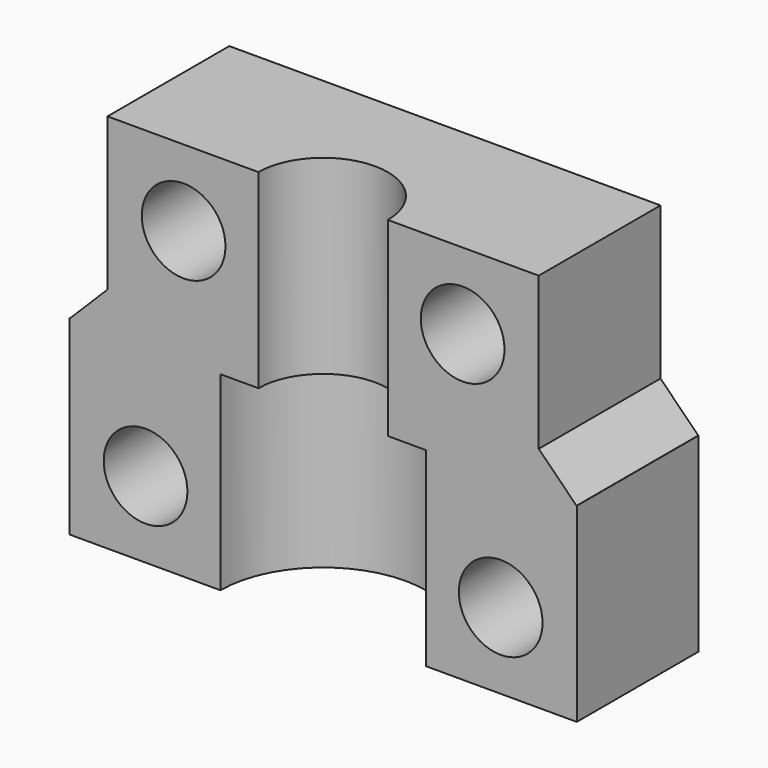
from build123d import *

# Parameters (mm, degrees)
PAD_DEPTH       = 15
SKETCH003_W     = 20
SKETCH003_H     = 6
PAD001_DEPTH    = 7.5
SKETCH001_R     = 1.65
POCKET_DEPTH    = 6.001
SKETCH002_R     = 4.05
POCKET001_DEPTH = 7.5
CHAMFER_SIZE    = 1.49


with BuildPart() as part:
    # Sketch → Pad (new body)
    with BuildSketch(Plane.XY):
        with BuildLine():
            ThreePointArc((2.55, 0), (0, 2.55), (-2.55, 0))
            Line((-2.55, 0), (-8.5, 0))
            Line((-8.5, 0), (-8.5, 6))
            Line((-8.5, 6), (8.5, 6))
            Line((8.5, 6), (8.5, 0))
            Line((2.55, 0), (8.5, 0))
        make_face()
    extrude(amount=PAD_DEPTH)

    # Sketch003 → Pad001 (join)
    with BuildSketch(Plane.XY):
        with Locations((0, 3)):
            Rectangle(SKETCH003_W, SKETCH003_H)
    extrude(amount=PAD001_DEPTH)

    # Sketch001 → Pocket (cut, through all)
    with BuildSketch(Plane.XZ):
        with Locations((-7, 3)):
            Circle(SKETCH001_R)
        with Locations((-5.5, 12)):
            Circle(SKETCH001_R)
        with Locations((5.5, 12)):
            Circle(SKETCH001_R)
        with Locations((7, 3)):
            Circle(SKETCH001_R)
    extrude(amount=-POCKET_DEPTH, mode=Mode.SUBTRACT)

    # Sketch002 → Pocket001 (cut)
    with BuildSketch(Plane.XY):
        Circle(SKETCH002_R)
    extrude(amount=POCKET001_DEPTH, mode=Mode.SUBTRACT)

    # Chamfer
    chamfer_edges = [part.edges().sort_by_distance(p)[0] for p in [
        (8.5, 3, 7.5),
        (-8.5, 3, 7.5),
    ]]
    chamfer(chamfer_edges, length=CHAMFER_SIZE)


solid = part.part
